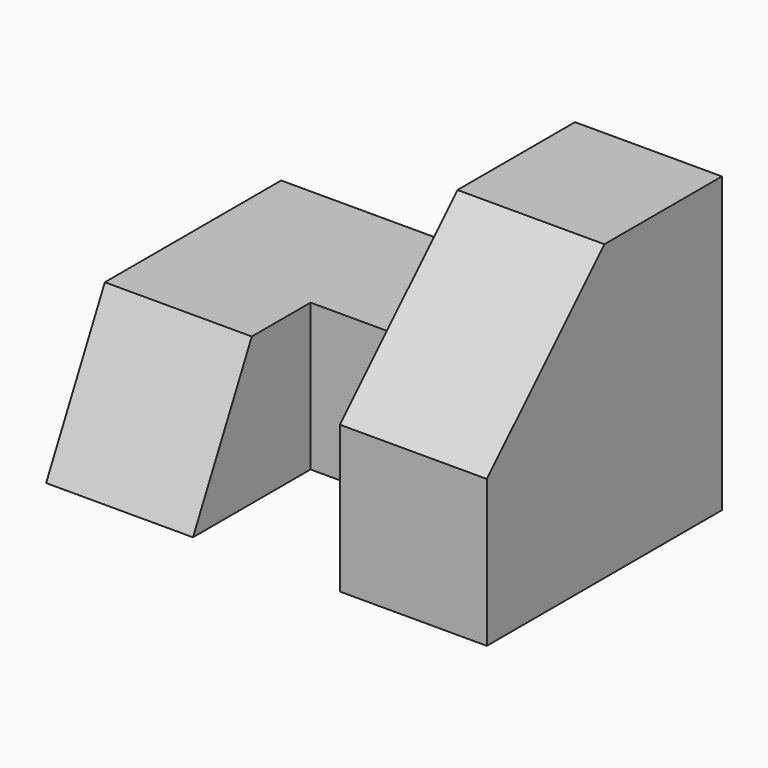
from build123d import *

# Parameters (mm, degrees)
F0_W     = 25.4
F0_H     = 25.4
F1_DEPTH = 19.05
F3_DEPTH = 12.7
F4_W     = 25.4
F4_H     = 12.7
F5_DEPTH = 25.401
F6_W     = 12.7
F6_H     = 12.7
F7_DEPTH = 12.7
F9_DEPTH = 12.701


with BuildPart() as f1:
    # F0 (on Right) → F1 (new body, symmetric)
    with BuildSketch(Plane.YZ):
        with Locations((-12.7, 12.7)):
            Rectangle(F0_W, F0_H)
    extrude(amount=F1_DEPTH, both=True)

    # F2 (on face) → F3 (cut)
    with BuildSketch(Plane.YZ.offset(19.05)):
        Polygon((-25.4, 25.4), (-25.4, 12.7), (-12.7, 25.4), align=None)
    extrude(amount=-F3_DEPTH, mode=Mode.SUBTRACT)

    # F4 (on face) → F5 (cut, through all)
    with BuildSketch(Plane.XZ.offset(25.4)):
        with Locations((-6.35, 19.05)):
            Rectangle(F4_W, F4_H)
    extrude(amount=-F5_DEPTH, mode=Mode.SUBTRACT)

    # F6 (on face) → F7 (cut)
    with BuildSketch(Plane.XZ.offset(25.4)):
        with Locations((0, 6.35)):
            Rectangle(F6_W, F6_H)
    extrude(amount=-F7_DEPTH, mode=Mode.SUBTRACT)

    # F8 (on face) → F9 (cut, through all)
    with BuildSketch(Plane.YZ.offset(-6.35)):
        Polygon((-25.4, 0), (-19.05, 12.7), (-25.4, 12.7), align=None)
    extrude(amount=-F9_DEPTH, mode=Mode.SUBTRACT)


solid = f1.part
